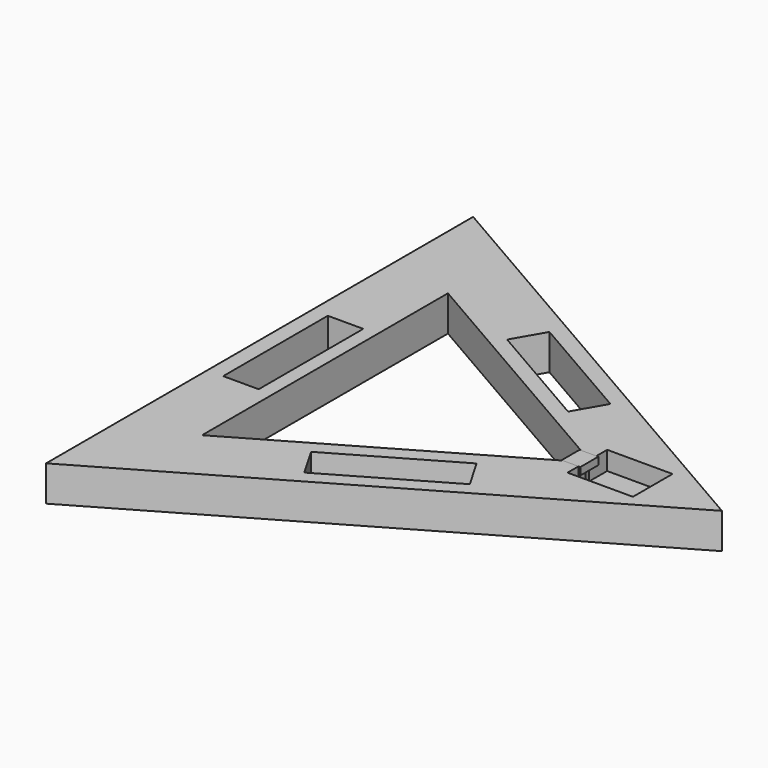
from build123d import *

# Parameters (mm, degrees)
BOX003_W               = 35
BOX003_H               = 26.5
BOX003_DEPTH           = 10
BOX002_W               = 70
BOX002_H               = 19
BOX002_DEPTH           = 19
BOX002_PLACEMENT_ANGLE = 30
BOX001_W               = 70
BOX001_H               = 19
BOX001_DEPTH           = 19
BOX001_PLACEMENT_ANGLE = 90
BOX_W                  = 70
BOX_H                  = 19
BOX_DEPTH              = 19
BOX_PLACEMENT_ANGLE    = 30
PRISM001_DEPTH         = 19
PRISM_DEPTH            = 19
BOX004_W               = 10
BOX004_H               = 12
BOX004_DEPTH           = 4


with BuildPart() as box003:
    # Box003 → Box003 (new body)
    with BuildSketch(Plane(origin=(93, -13.3, 9), x_dir=(1, 0, 0), z_dir=(0, 0, 1))):
        with Locations((17.5, 13.25)):
            Rectangle(BOX003_W, BOX003_H)
    extrude(amount=BOX003_DEPTH)


with BuildPart() as box002:
    # Box002 → Box002 (new body)
    with BuildSketch(Plane.XY):
        with Locations((35, 9.5)):
            Rectangle(BOX002_W, BOX002_H)
    extrude(amount=BOX002_DEPTH)


with BuildPart() as box002_1:
    # Box002 placement: moved
    add(box002.part.moved(Location((7, -82, 0))).rotate(Axis((7, -82, 0), (0, 0, 1)), BOX002_PLACEMENT_ANGLE))


with BuildPart() as box001:
    # Box001 → Box001 (new body)
    with BuildSketch(Plane.XY):
        with Locations((35, 9.5)):
            Rectangle(BOX001_W, BOX001_H)
    extrude(amount=BOX001_DEPTH)


with BuildPart() as box001_1:
    # Box001 placement: moved
    add(box001.part.moved(Location((-55, -35, 0))).rotate(Axis((-55, -35, 0), (0, 0, 1)), BOX001_PLACEMENT_ANGLE))


with BuildPart() as box:
    # Box → Box (new body)
    with BuildSketch(Plane.XY):
        with Locations((35, 9.5)):
            Rectangle(BOX_W, BOX_H)
    extrude(amount=BOX_DEPTH)


with BuildPart() as box_1:
    # Box placement: moved
    add(box.part.moved(Location((-2, 65, 0))).rotate(Axis((-2, 65, 0), (0, 0, -1)), BOX_PLACEMENT_ANGLE))


with BuildPart() as prism001:
    # Prism001 → Prism001 (new body)
    with BuildSketch(Plane.XY):
        Polygon((95, 0), (-47.5, 82.272413), (-47.5, -82.272413), align=None)
    extrude(amount=PRISM001_DEPTH)


with BuildPart() as cut004:
    # Prism → Prism (new body)
    with BuildSketch(Plane.XY):
        Polygon((165, 0), (-82.5, 142.894192), (-82.5, -142.894192), align=None)
    extrude(amount=PRISM_DEPTH)

    # Cut: cut Prism001
    add(prism001.part, mode=Mode.SUBTRACT)

    # Cut001: cut Box
    add(box_1.part, mode=Mode.SUBTRACT)

    # Cut002: cut Box001
    add(box001_1.part, mode=Mode.SUBTRACT)

    # Cut003: cut Box002
    add(box002_1.part, mode=Mode.SUBTRACT)

    # Cut004: cut Box003
    add(box003.part, mode=Mode.SUBTRACT)


with BuildPart() as box004:
    # Box004 → Box004 (new body)
    with BuildSketch(Plane(origin=(84, -6, 15), x_dir=(1, 0, 0), z_dir=(0, 0, 1))):
        with Locations((5, 6)):
            Rectangle(BOX004_W, BOX004_H)
    extrude(amount=BOX004_DEPTH)


solid = Compound([cut004.part, box004.part])
